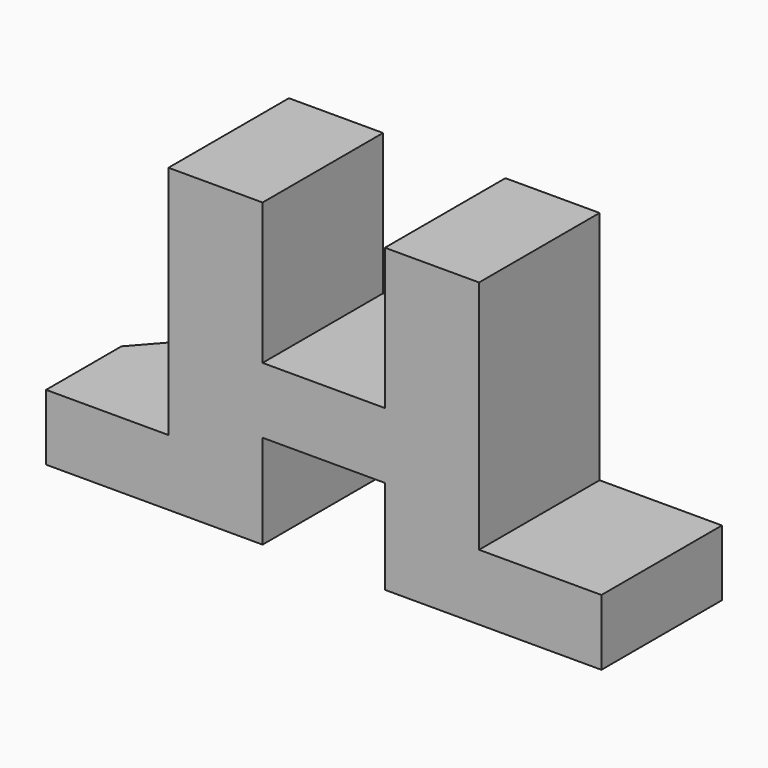
from build123d import *

# Parameters (mm, degrees)
F1_DEPTH = 406.4
F3_DEPTH = 812.801


with BuildPart() as f1:
    # F0 (on Front) → F1 (new body)
    with BuildSketch(Plane.XZ):
        Polygon((0, 0), (584.2, 0), (584.2, 177.8), (254, 177.8), (254, 812.8), (0, 812.8), (0, 431.8), (-330.2, 431.8), (-330.2, 812.8), (-584.2, 812.8), (-584.2, 177.8), (-914.4, 177.8), (-914.4, 0), (-330.2, 0), (-330.2, 254), (0, 254), align=None)
    extrude(amount=F1_DEPTH)

    # F2 (on face) → F3 (cut, through all)
    with BuildSketch(Plane(origin=(0, 0, 0), x_dir=(1, 0, 0), z_dir=(0, 0, -1))):
        Polygon((-779.995833, 0), (-914.4, 152.4), (-914.4, 0), align=None)
    extrude(amount=-F3_DEPTH, mode=Mode.SUBTRACT)


solid = f1.part
